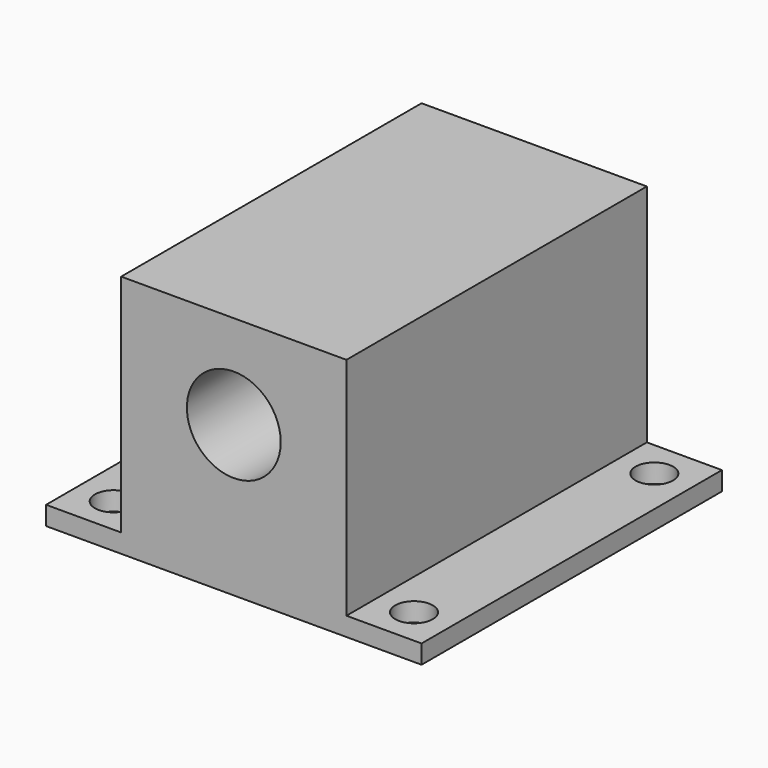
from build123d import *

# Parameters (mm, degrees)
F0_W     = 127
F0_H     = 127
F0_R     = 6.35
F1_DEPTH = 6.35
F2_W     = 76.2
F2_H     = 76.2
F2_R     = 15.875
F3_DEPTH = 127


with BuildPart() as f1:
    # F0 (on Top) → F1 (new body)
    with BuildSketch(Plane.XY):
        Rectangle(F0_W, F0_H)
        with Locations((-50.8, -50.8)):
            Circle(F0_R, mode=Mode.SUBTRACT)
        with Locations((50.8, -50.8)):
            Circle(F0_R, mode=Mode.SUBTRACT)
        with Locations((-50.8, 50.8)):
            Circle(F0_R, mode=Mode.SUBTRACT)
        with Locations((50.8, 50.8)):
            Circle(F0_R, mode=Mode.SUBTRACT)
    extrude(amount=F1_DEPTH)

    # F2 (on face) → F3 (join, through all)
    with BuildSketch(Plane.XZ.offset(63.5)):
        with Locations((0, 44.45)):
            Rectangle(F2_W, F2_H)
        with Locations((0, 50.8)):
            Circle(F2_R, mode=Mode.SUBTRACT)
    extrude(amount=-F3_DEPTH)


solid = f1.part
